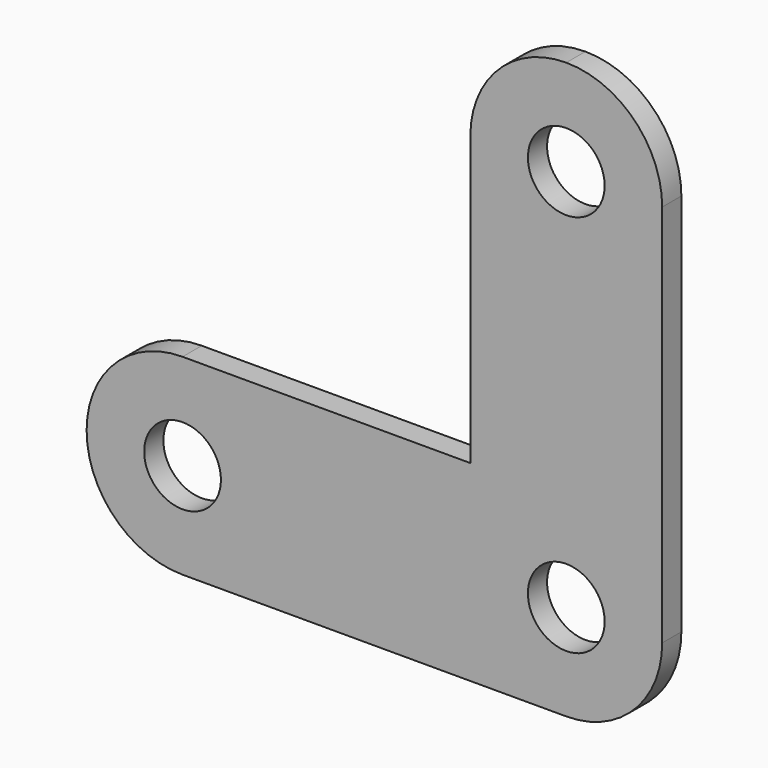
from build123d import *

# Parameters (mm, degrees)
F0_R     = 5.08
F1_DEPTH = 3.175


with BuildPart() as f1:
    # F0 (on Front) → F1 (new body)
    with BuildSketch(Plane.XZ):
        with BuildLine():
            ThreePointArc((-12.7, 0), (-3.719744, 3.719744), (0, 12.7))
            Line((0, 12.7), (0, 63.5))
            ThreePointArc((0, 63.5), (-3.719744, 72.480256), (-12.7, 76.2))
            ThreePointArc((-12.7, 76.2), (-21.680256, 72.480256), (-25.4, 63.5))
            Line((-25.4, 63.5), (-25.4, 25.4))
            Line((-25.4, 25.4), (-63.5, 25.4))
            ThreePointArc((-63.5, 25.4), (-72.480256, 21.680256), (-76.2, 12.7))
            ThreePointArc((-76.2, 12.7), (-72.480256, 3.719744), (-63.5, 0))
            Line((-63.5, 0), (-12.7, 0))
        make_face()
        with Locations((-63.5, 12.7)):
            Circle(F0_R, mode=Mode.SUBTRACT)
        with Locations((-12.7, 12.7)):
            Circle(F0_R, mode=Mode.SUBTRACT)
        with Locations((-12.7, 63.5)):
            Circle(F0_R, mode=Mode.SUBTRACT)
    extrude(amount=F1_DEPTH)


solid = f1.part
